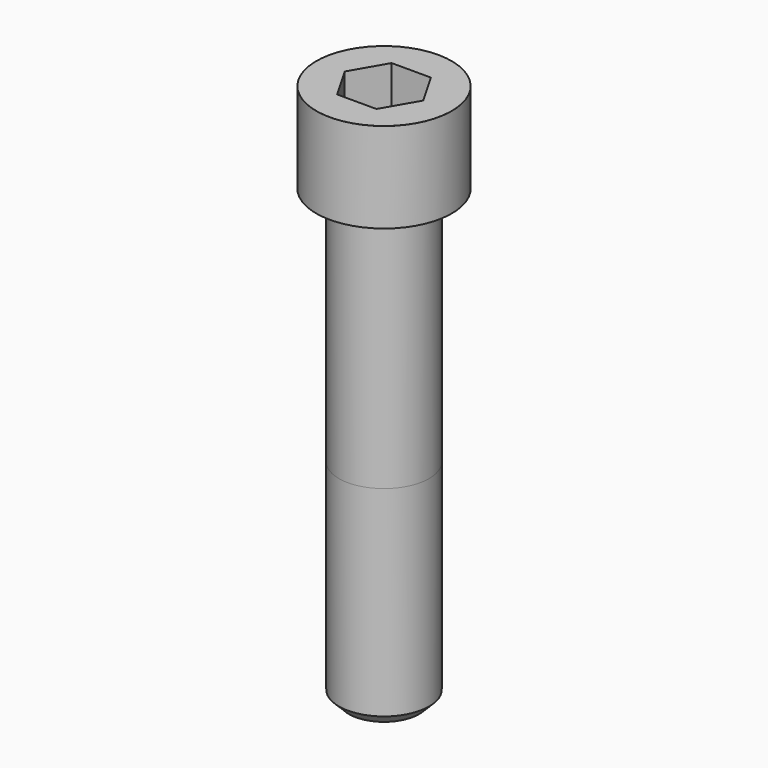
from build123d import *

# Parameters (mm, degrees)
POCKET_DEPTH = 27.15


with BuildPart() as part:
    # Sketch → Revolve (revolve)
    with BuildSketch(Plane.YZ):
        with BuildLine():
            Line((17.999, 0), (27, 0))
            Line((27, 0), (27, 35.97229))
            ThreePointArc((27, 35.97229), (26.991884, 35.991884), (26.97229, 36))
            Line((26.97229, 36), (0, 36))
            Line((0, -180), (0, 36))
            Line((14, -180), (0, -180))
            Line((18, -176), (14, -180))
            Line((18, -96), (18, -176))
            Line((17.999, 0), (18, -96))
        make_face()
    revolve(axis=Axis((0, 0, 0), (0, 0, 1)))

    # Sketch001 → Pocket (cut)
    with BuildSketch(Plane.XY.offset(36)):
        Polygon((15.67506, 0), (7.83753, 13.575), (-7.83753, 13.575), (-15.67506, 0), (-7.83753, -13.575), (7.83753, -13.575), align=None)
    extrude(amount=-POCKET_DEPTH, mode=Mode.SUBTRACT)


solid = part.part
